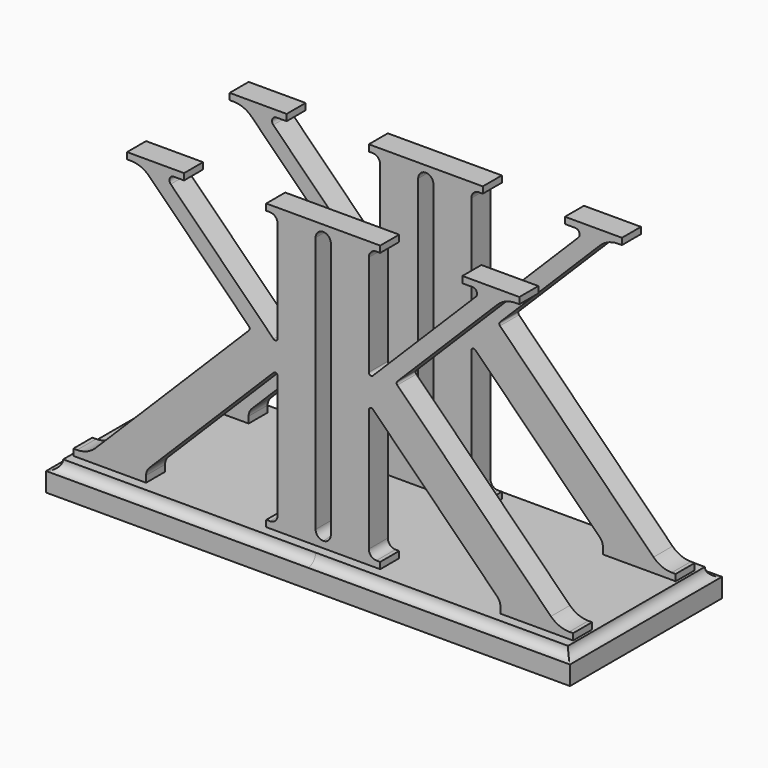
from build123d import *

# Parameters (mm, degrees)
F1_DEPTH      = 7.9375
F2_START      = 42.8625
F2_DEPTH      = 7.9375
F4_DEPTH      = 57.15
F4_DEPTH_BACK = 6.35
F5_R          = 3.175
F6_DEPTH      = 87.5587473051
F6_DEPTH_BACK = 87.5587473051
F7_START      = 2.38125
F0_W          = 15.875
F0_H          = 3.175
F7_DEPTH      = 3.175
F8_START      = 45.24375
F8_DEPTH      = 3.175


with BuildPart() as f1:
    # F0 (on Front) → F1 (new body)
    with BuildSketch(Plane.XZ):
        with BuildLine():
            Line((15.24, 9.100486912), (15.24, 42.926))
            ThreePointArc((15.24, 42.926), (15.9839487758, 44.7220512242), (17.78, 45.466))
            Line((17.78, 45.466), (19.05, 45.466))
            Line((19.05, 45.466), (19.05, 47.625))
            Line((19.05, 47.625), (0, 47.625))
            Line((0, 47.625), (-19.05, 47.625))
            Line((-19.05, 47.625), (-19.05, 45.466))
            Line((-19.05, 45.466), (-17.78, 45.466))
            ThreePointArc((-17.78, 45.466), (-15.9839487758, 44.7220512242), (-15.24, 42.926))
            Line((-15.24, 42.926), (-15.24, 9.100486912))
            ThreePointArc((-15.24, 9.100486912), (-15.7299950256, 8.3671575331), (-16.5950160076, 8.5392209044))
            Line((-16.5950160076, 8.5392209044), (-50.9817951031, 42.926))
            ThreePointArc((-50.9817951031, 42.926), (-51.3043307491, 44.5474961905), (-49.9296926547, 45.466))
            Line((-49.9296926547, 45.466), (-46.5181024484, 45.466))
            Line((-46.5181024484, 45.466), (-46.5181024484, 47.625))
            Line((-46.5181024484, 47.625), (-65.5681024484, 47.625))
            Line((-65.5681024484, 47.625), (-65.5681024484, 45.466))
            Line((-65.5681024484, 45.466), (-64.2981024484, 45.466))
            ThreePointArc((-64.2981024484, 45.466), (-60.9794325176, 44.8058755075), (-58.166, 42.926))
            Line((-58.166, 42.926), (-24.7815221286, 9.5415221286))
            ThreePointArc((-24.7815221286, 9.5415221286), (-24.5490381362, 8.9802561211), (-24.7815221286, 8.4189901135))
            Line((-24.7815221286, 8.4189901135), (-76.1265122421, -42.926))
            ThreePointArc((-76.1265122421, -42.926), (-78.9399447598, -44.8058755075), (-82.2586146906, -45.466))
            Line((-82.2586146906, -45.466), (-83.5286146906, -45.466))
            Line((-83.5286146906, -45.466), (-83.5286146906, -47.625))
            Line((-83.5286146906, -47.625), (-78.2681024484, -47.625))
            Line((-78.2681024484, -47.625), (-62.3931024484, -47.625))
            Line((-62.3931024484, -47.625), (-59.2181024484, -47.625))
            Line((-59.2181024484, -47.625), (-59.2181024484, -45.466))
            ThreePointArc((-59.2181024484, -45.466), (-58.9446699308, -44.0913619056), (-58.166, -42.926))
            Line((-58.166, -42.926), (-16.5950160076, -1.3550160076))
            ThreePointArc((-16.5950160076, -1.3550160076), (-15.7299950256, -1.1829526362), (-15.24, -1.9162820151))
            Line((-15.24, -1.9162820151), (-15.24, -42.926))
            ThreePointArc((-15.24, -42.926), (-15.9839487758, -44.7220512242), (-17.78, -45.466))
            Line((-17.78, -45.466), (-19.05, -45.466))
            Line((-19.05, -45.466), (-19.05, -47.625))
            Line((-19.05, -47.625), (0, -47.625))
            Line((0, -47.625), (19.05, -47.625))
            Line((19.05, -47.625), (19.05, -45.466))
            Line((19.05, -45.466), (17.78, -45.466))
            ThreePointArc((17.78, -45.466), (15.9839487758, -44.7220512242), (15.24, -42.926))
            Line((15.24, -42.926), (15.24, -1.9162820151))
            ThreePointArc((15.24, -1.9162820151), (15.7299950256, -1.1829526362), (16.5950160076, -1.3550160076))
            Line((16.5950160076, -1.3550160076), (58.166, -42.926))
            ThreePointArc((58.166, -42.926), (58.9446699308, -44.0913619056), (59.2181024484, -45.466))
            Line((59.2181024484, -45.466), (59.2181024484, -47.625))
            Line((59.2181024484, -47.625), (62.3931024484, -47.625))
            Line((62.3931024484, -47.625), (78.2681024484, -47.625))
            Line((78.2681024484, -47.625), (83.5286146906, -47.625))
            Line((83.5286146906, -47.625), (83.5286146906, -45.466))
            Line((83.5286146906, -45.466), (82.2586146906, -45.466))
            ThreePointArc((82.2586146906, -45.466), (78.9399447598, -44.8058755075), (76.1265122421, -42.926))
            Line((76.1265122421, -42.926), (24.7815221286, 8.4189901135))
            ThreePointArc((24.7815221286, 8.4189901135), (24.5490381362, 8.9802561211), (24.7815221286, 9.5415221286))
            Line((24.7815221286, 9.5415221286), (58.166, 42.926))
            ThreePointArc((58.166, 42.926), (60.9794325176, 44.8058755075), (64.2981024484, 45.466))
            Line((64.2981024484, 45.466), (65.5681024484, 45.466))
            Line((65.5681024484, 45.466), (65.5681024484, 47.625))
            Line((65.5681024484, 47.625), (46.5181024484, 47.625))
            Line((46.5181024484, 47.625), (46.5181024484, 45.466))
            Line((46.5181024484, 45.466), (49.9296926547, 45.466))
            ThreePointArc((49.9296926547, 45.466), (51.3043307491, 44.5474961905), (50.9817951031, 42.926))
            Line((50.9817951031, 42.926), (16.5950160076, 8.5392209044))
            ThreePointArc((16.5950160076, 8.5392209044), (15.7299950256, 8.3671575331), (15.24, 9.100486912))
        make_face()
        with BuildLine():
            ThreePointArc((0, 45.466), (1.7960512242, 44.7220512242), (2.54, 42.926))
            Line((2.54, 42.926), (2.54, 0))
            Line((2.54, 0), (2.54, -42.926))
            ThreePointArc((2.54, -42.926), (1.7960512242, -44.7220512242), (0, -45.466))
            ThreePointArc((0, -45.466), (-1.7960512242, -44.7220512242), (-2.54, -42.926))
            Line((-2.54, -42.926), (-2.54, 42.926))
            ThreePointArc((-2.54, 42.926), (-1.7960512242, 44.7220512242), (0, 45.466))
        make_face(mode=Mode.SUBTRACT)
    extrude(amount=F1_DEPTH)

    # F0 (on Front) → F7 (join)
    with BuildSketch(Plane.XZ.offset(F7_START)):
        with Locations((-70.3306024484, -49.2125)):
            Rectangle(F0_W, F0_H)
        with Locations((70.3306024484, -49.2125)):
            Rectangle(F0_W, F0_H)
    extrude(amount=F7_DEPTH)


with BuildPart() as f2:
    # F0 (on Front) → F2 (new body)
    with BuildSketch(Plane.XZ.offset(F2_START)):
        with BuildLine():
            Line((15.24, 9.100486912), (15.24, 42.926))
            ThreePointArc((15.24, 42.926), (15.9839487758, 44.7220512242), (17.78, 45.466))
            Line((17.78, 45.466), (19.05, 45.466))
            Line((19.05, 45.466), (19.05, 47.625))
            Line((19.05, 47.625), (0, 47.625))
            Line((0, 47.625), (-19.05, 47.625))
            Line((-19.05, 47.625), (-19.05, 45.466))
            Line((-19.05, 45.466), (-17.78, 45.466))
            ThreePointArc((-17.78, 45.466), (-15.9839487758, 44.7220512242), (-15.24, 42.926))
            Line((-15.24, 42.926), (-15.24, 9.100486912))
            ThreePointArc((-15.24, 9.100486912), (-15.7299950256, 8.3671575331), (-16.5950160076, 8.5392209044))
            Line((-16.5950160076, 8.5392209044), (-50.9817951031, 42.926))
            ThreePointArc((-50.9817951031, 42.926), (-51.3043307491, 44.5474961905), (-49.9296926547, 45.466))
            Line((-49.9296926547, 45.466), (-46.5181024484, 45.466))
            Line((-46.5181024484, 45.466), (-46.5181024484, 47.625))
            Line((-46.5181024484, 47.625), (-65.5681024484, 47.625))
            Line((-65.5681024484, 47.625), (-65.5681024484, 45.466))
            Line((-65.5681024484, 45.466), (-64.2981024484, 45.466))
            ThreePointArc((-64.2981024484, 45.466), (-60.9794325176, 44.8058755075), (-58.166, 42.926))
            Line((-58.166, 42.926), (-24.7815221286, 9.5415221286))
            ThreePointArc((-24.7815221286, 9.5415221286), (-24.5490381362, 8.9802561211), (-24.7815221286, 8.4189901135))
            Line((-24.7815221286, 8.4189901135), (-76.1265122421, -42.926))
            ThreePointArc((-76.1265122421, -42.926), (-78.9399447598, -44.8058755075), (-82.2586146906, -45.466))
            Line((-82.2586146906, -45.466), (-83.5286146906, -45.466))
            Line((-83.5286146906, -45.466), (-83.5286146906, -47.625))
            Line((-83.5286146906, -47.625), (-78.2681024484, -47.625))
            Line((-78.2681024484, -47.625), (-62.3931024484, -47.625))
            Line((-62.3931024484, -47.625), (-59.2181024484, -47.625))
            Line((-59.2181024484, -47.625), (-59.2181024484, -45.466))
            ThreePointArc((-59.2181024484, -45.466), (-58.9446699308, -44.0913619056), (-58.166, -42.926))
            Line((-58.166, -42.926), (-16.5950160076, -1.3550160076))
            ThreePointArc((-16.5950160076, -1.3550160076), (-15.7299950256, -1.1829526362), (-15.24, -1.9162820151))
            Line((-15.24, -1.9162820151), (-15.24, -42.926))
            ThreePointArc((-15.24, -42.926), (-15.9839487758, -44.7220512242), (-17.78, -45.466))
            Line((-17.78, -45.466), (-19.05, -45.466))
            Line((-19.05, -45.466), (-19.05, -47.625))
            Line((-19.05, -47.625), (0, -47.625))
            Line((0, -47.625), (19.05, -47.625))
            Line((19.05, -47.625), (19.05, -45.466))
            Line((19.05, -45.466), (17.78, -45.466))
            ThreePointArc((17.78, -45.466), (15.9839487758, -44.7220512242), (15.24, -42.926))
            Line((15.24, -42.926), (15.24, -1.9162820151))
            ThreePointArc((15.24, -1.9162820151), (15.7299950256, -1.1829526362), (16.5950160076, -1.3550160076))
            Line((16.5950160076, -1.3550160076), (58.166, -42.926))
            ThreePointArc((58.166, -42.926), (58.9446699308, -44.0913619056), (59.2181024484, -45.466))
            Line((59.2181024484, -45.466), (59.2181024484, -47.625))
            Line((59.2181024484, -47.625), (62.3931024484, -47.625))
            Line((62.3931024484, -47.625), (78.2681024484, -47.625))
            Line((78.2681024484, -47.625), (83.5286146906, -47.625))
            Line((83.5286146906, -47.625), (83.5286146906, -45.466))
            Line((83.5286146906, -45.466), (82.2586146906, -45.466))
            ThreePointArc((82.2586146906, -45.466), (78.9399447598, -44.8058755075), (76.1265122421, -42.926))
            Line((76.1265122421, -42.926), (24.7815221286, 8.4189901135))
            ThreePointArc((24.7815221286, 8.4189901135), (24.5490381362, 8.9802561211), (24.7815221286, 9.5415221286))
            Line((24.7815221286, 9.5415221286), (58.166, 42.926))
            ThreePointArc((58.166, 42.926), (60.9794325176, 44.8058755075), (64.2981024484, 45.466))
            Line((64.2981024484, 45.466), (65.5681024484, 45.466))
            Line((65.5681024484, 45.466), (65.5681024484, 47.625))
            Line((65.5681024484, 47.625), (46.5181024484, 47.625))
            Line((46.5181024484, 47.625), (46.5181024484, 45.466))
            Line((46.5181024484, 45.466), (49.9296926547, 45.466))
            ThreePointArc((49.9296926547, 45.466), (51.3043307491, 44.5474961905), (50.9817951031, 42.926))
            Line((50.9817951031, 42.926), (16.5950160076, 8.5392209044))
            ThreePointArc((16.5950160076, 8.5392209044), (15.7299950256, 8.3671575331), (15.24, 9.100486912))
        make_face()
        with BuildLine():
            ThreePointArc((0, 45.466), (1.7960512242, 44.7220512242), (2.54, 42.926))
            Line((2.54, 42.926), (2.54, 0))
            Line((2.54, 0), (2.54, -42.926))
            ThreePointArc((2.54, -42.926), (1.7960512242, -44.7220512242), (0, -45.466))
            ThreePointArc((0, -45.466), (-1.7960512242, -44.7220512242), (-2.54, -42.926))
            Line((-2.54, -42.926), (-2.54, 42.926))
            ThreePointArc((-2.54, 42.926), (-1.7960512242, 44.7220512242), (0, 45.466))
        make_face(mode=Mode.SUBTRACT)
    extrude(amount=F2_DEPTH)

    # F0 (on Front) → F8 (join)
    with BuildSketch(Plane.XZ.offset(F8_START)):
        with Locations((70.3306024484, -49.2125)):
            Rectangle(F0_W, F0_H)
        with Locations((-70.3306024484, -49.2125)):
            Rectangle(F0_W, F0_H)
    extrude(amount=F8_DEPTH)


with BuildPart() as f4:
    # F3 (on Front) → F4 (new body, two sides)
    with BuildSketch(Plane.XZ) as f4_sk:
        with BuildLine():
            Line((84.3837473051, -47.625), (0, -47.625))
            Line((0, -47.625), (-84.3837473051, -47.625))
            ThreePointArc((-84.3837473051, -47.625), (-85.3136832748, -49.8700640303), (-87.5587473051, -50.8))
            Line((-87.5587473051, -50.8), (-87.5587473051, -57.15))
            Line((-87.5587473051, -57.15), (0, -57.15))
            Line((0, -57.15), (87.5587473051, -57.15))
            Line((87.5587473051, -57.15), (87.5587473051, -50.8))
            ThreePointArc((87.5587473051, -50.8), (85.3136832748, -49.8700640303), (84.3837473051, -47.625))
        make_face()
    extrude(amount=F4_DEPTH)
    extrude(f4_sk.sketch, amount=-F4_DEPTH_BACK)

    # F5 (on Right) → F6 (cut, two sides)
    with BuildSketch(Plane.YZ) as f6_sk:
        with Locations((6.35, -47.625)):
            Circle(F5_R)
        with Locations((-57.15, -47.625)):
            Circle(F5_R)
    extrude(amount=F6_DEPTH, mode=Mode.SUBTRACT)
    extrude(f6_sk.sketch, amount=-F6_DEPTH_BACK, mode=Mode.SUBTRACT)


solid = Compound([f1.part, f2.part, f4.part])
